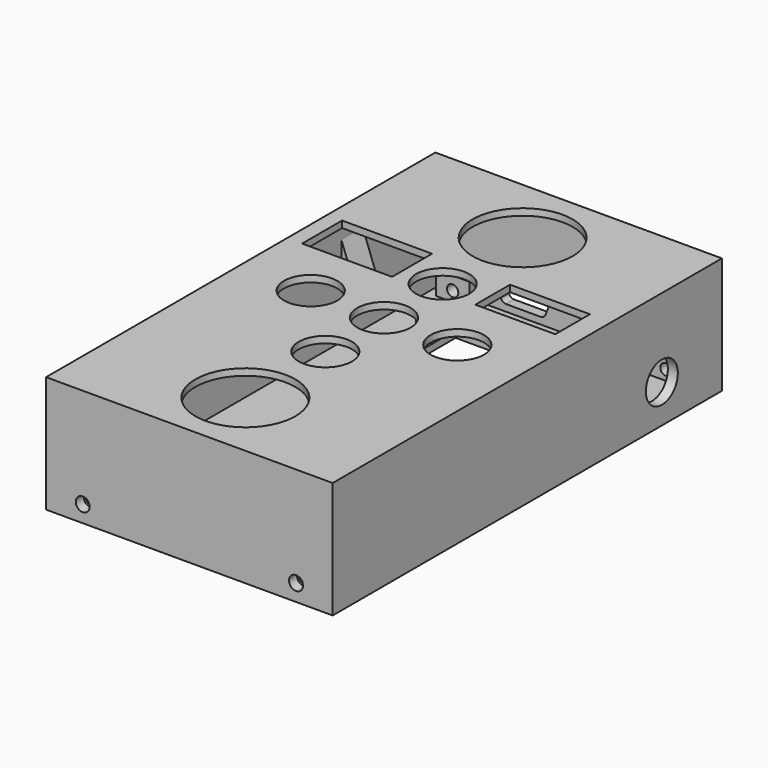
from build123d import *

# Parameters (mm, degrees)
SKETCH_W        = 86
SKETCH_H        = 146
SKETCH_R        = 8
SKETCH_R_2      = 15
SKETCH_W_2      = 27
SKETCH_H_2      = 15
SKETCH_W_3      = 24
SKETCH_H_3      = 13
PAD_DEPTH       = 35
SKETCH001_W     = 80
SKETCH001_H     = 140
POCKET_DEPTH    = 33
SKETCH002_W     = 78
SKETCH002_H     = 108
POCKET001_DEPTH = 25
SKETCH003_R     = 2.555767
POCKET002_DEPTH = 150
SKETCH004_R     = 2.1
POCKET003_DEPTH = 75
PAD003_DEPTH    = 42
SKETCH009_W     = 80
SKETCH009_H     = 68
POCKET005_DEPTH = 30
SKETCH010_R     = 6
POCKET006_DEPTH = 50
SKETCH005_W     = 79.5
SKETCH005_H     = 139.5
SKETCH005_R     = 2.5
SKETCH005_W_2   = 45
SKETCH005_H_2   = 110
PAD001_DEPTH    = 2
SKETCH006_W     = 10
SKETCH006_H     = 4
PAD002_DEPTH    = 9
SKETCH007_R     = 1.7
POCKET004_DEPTH = 557.5
CHAMFER_SIZE    = 1


with BuildPart() as obj1:
    # Sketch → Pad (new body)
    with BuildSketch(Plane.XY):
        Rectangle(SKETCH_W, SKETCH_H)
        with Locations((-22, 0)):
            Circle(SKETCH_R, mode=Mode.SUBTRACT)
        with Locations((22, 0)):
            Circle(SKETCH_R, mode=Mode.SUBTRACT)
        with Locations((0, -22)):
            Circle(SKETCH_R, mode=Mode.SUBTRACT)
        with Locations((0, 22)):
            Circle(SKETCH_R, mode=Mode.SUBTRACT)
        with Locations((0, -52)):
            Circle(SKETCH_R_2, mode=Mode.SUBTRACT)
        with Locations((0, 52)):
            Circle(SKETCH_R_2, mode=Mode.SUBTRACT)
        Circle(SKETCH_R, mode=Mode.SUBTRACT)
        with Locations((-25, 24.900857)):
            Rectangle(SKETCH_W_2, SKETCH_H_2, mode=Mode.SUBTRACT)
        with Locations((24.560344, 25.050734)):
            Rectangle(SKETCH_W_3, SKETCH_H_3, mode=Mode.SUBTRACT)
    extrude(amount=PAD_DEPTH)

    # Sketch001 → Pocket (cut)
    with BuildSketch(Plane.XY):
        Rectangle(SKETCH001_W, SKETCH001_H)
    extrude(amount=POCKET_DEPTH, mode=Mode.SUBTRACT)

    # Sketch002 → Pocket001 (cut)
    with BuildSketch(Plane.XY):
        Rectangle(SKETCH002_W, SKETCH002_H)
    extrude(amount=POCKET001_DEPTH, mode=Mode.SUBTRACT)

    # Sketch003 → Pocket002 (cut)
    with BuildSketch(Plane.XZ):
        with Locations((22.723835, 7.769466)):
            Circle(SKETCH003_R)
        with BuildLine():
            Line((-21.181868, 11.86034), (-7.181868, 11.86034))
            ThreePointArc((-5.722935, 9.776768), (-5.910082, 11.19829), (-7.181868, 11.86034))
            Line((-5.722935, 9.776768), (-7.504523, 4.881896))
            ThreePointArc((-8.963456, 3.86034), (-8.072942, 4.141118), (-7.504523, 4.881896))
            Line((-8.963456, 3.86034), (-19.40028, 3.86034))
            ThreePointArc((-20.859213, 4.881896), (-20.290794, 4.141118), (-19.40028, 3.86034))
            Line((-20.859213, 4.881896), (-22.640801, 9.776768))
            ThreePointArc((-21.181868, 11.86034), (-22.453654, 11.19829), (-22.640801, 9.776768))
        make_face()
    extrude(amount=-POCKET002_DEPTH, mode=Mode.SUBTRACT)

    # Sketch004 → Pocket003 (cut, symmetric)
    with BuildSketch(Plane.XZ):
        with Locations((-32, 5)):
            Circle(SKETCH004_R)
        with Locations((32, 5)):
            Circle(SKETCH004_R)
    extrude(amount=POCKET003_DEPTH, both=True, mode=Mode.SUBTRACT)

    # Sketch008 → Pad003 (join, symmetric)
    with BuildSketch(Plane.XZ):
        Polygon((-40, 28.811201), (-40, 18), (-36, 18), align=None)
        Polygon((40, 18), (40, 28.811201), (36, 18), align=None)
    extrude(amount=PAD003_DEPTH, both=True)

    # Sketch009 → Pocket005 (cut)
    with BuildSketch(Plane.XY):
        Rectangle(SKETCH009_W, SKETCH009_H)
    extrude(amount=POCKET005_DEPTH, mode=Mode.SUBTRACT)

    # Sketch010 → Pocket006 (cut)
    with BuildSketch(Plane.YZ):
        with Locations((50.465958, 11.444386)):
            Circle(SKETCH010_R)
    extrude(amount=POCKET006_DEPTH, mode=Mode.SUBTRACT)


with BuildPart() as obj2:
    # Sketch005 → Pad001 (new body)
    with BuildSketch(Plane.XY):
        Rectangle(SKETCH005_W, SKETCH005_H)
        with Locations((-30, 55)):
            Circle(SKETCH005_R, mode=Mode.SUBTRACT)
        with Locations((30, 55)):
            Circle(SKETCH005_R, mode=Mode.SUBTRACT)
        with Locations((-30, -55)):
            Circle(SKETCH005_R, mode=Mode.SUBTRACT)
        with Locations((30, -55)):
            Circle(SKETCH005_R, mode=Mode.SUBTRACT)
        Rectangle(SKETCH005_W_2, SKETCH005_H_2, mode=Mode.SUBTRACT)
    extrude(amount=PAD001_DEPTH)

    # Sketch006 → Pad002 (join)
    with BuildSketch(Plane.XY):
        with Locations((-32, 67.75)):
            Rectangle(SKETCH006_W, SKETCH006_H)
        with Locations((-32, -67.75)):
            Rectangle(SKETCH006_W, SKETCH006_H)
        with Locations((32, -67.75)):
            Rectangle(SKETCH006_W, SKETCH006_H)
        with Locations((32, 67.75)):
            Rectangle(SKETCH006_W, SKETCH006_H)
    extrude(amount=PAD002_DEPTH)

    # Sketch007 → Pocket004 (cut, symmetric)
    with BuildSketch(Plane.XZ):
        with Locations((-32, 5)):
            Circle(SKETCH007_R)
        with Locations((32, 5)):
            Circle(SKETCH007_R)
    extrude(amount=POCKET004_DEPTH, both=True, mode=Mode.SUBTRACT)

    # Chamfer
    chamfer_edges = [obj2.edges().sort_by_distance(p)[0] for p in [
        (-32.5, -55, 2),
        (-32.5, 55, 2),
        (27.5, 55, 2),
        (27.5, -55, 2),
    ]]
    chamfer(chamfer_edges, length=CHAMFER_SIZE)


solid = Compound([obj1.part, obj2.part])
